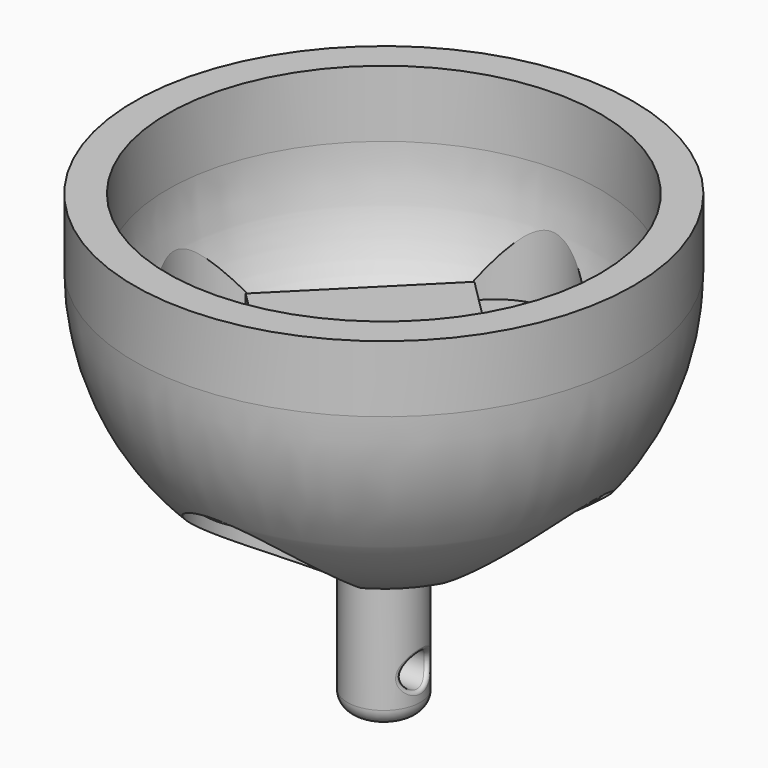
from build123d import *

# Parameters (mm, degrees)
SKETCH001_R          = 21.082
POCKET_DEPTH         = 539.866572
POLARPATTERN_COUNT   = 4
SKETCH002_R          = 21.082
SKETCH002_R_2        = 12
PAD_DEPTH            = 5
SKETCH003_R          = 11
PAD001_DEPTH         = 80
SKETCH004_R          = 5
POCKET001_DEPTH      = 75.001
POCKET001_DEPTH_BACK = -75.001
FILLET_R             = 5
FILLET001_R          = 1
FILLET002_R          = 2
PAD002_DEPTH         = 5
PAD002_DEPTH_BACK    = 5


with BuildPart() as part:
    # Sketch → Revolution (revolve)
    with BuildSketch(Plane.XZ):
        with BuildLine():
            ThreePointArc((54.120214, -36), (62.220617, -18.804051), (64.999981, 0))
            Line((64.999981, 0), (64.999981, 20))
            Line((75, 20), (64.999981, 20))
            Line((75, 0), (75, 20))
            ThreePointArc((0, -75), (53.033009, -53.033009), (75, 0))
            Line((0, -75), (0, -36))
            Line((0, -36), (54.120214, -36))
        make_face()
    revolve(axis=Axis((0, 0, 0), (0, 0, 1)))

    # Sketch001 → Pocket (cut, through all)
    with BuildSketch(Plane.XY):
        with Locations((42, 0)):
            Circle(SKETCH001_R)
    pocket = extrude(amount=-POCKET_DEPTH, mode=Mode.SUBTRACT)

    # PolarPattern: Pocket ×4 about axis
    polarpattern_axis = Axis((0, 0, 0), (0, 0, 1))
    for i in range(1, POLARPATTERN_COUNT):
        add(pocket.rotate(polarpattern_axis, i * 360 / POLARPATTERN_COUNT), mode=Mode.SUBTRACT)

    # Sketch002 (on Face1 of PolarPattern) → Pad (join)
    with BuildSketch(Plane(origin=(0, 0, -36), x_dir=(-1, 0, 0), z_dir=(0, 0, 1))):
        with Locations((42, 0)):
            Circle(SKETCH002_R)
        with Locations((42, 0)):
            Circle(SKETCH002_R_2, mode=Mode.SUBTRACT)
        with Locations((0, -42)):
            Circle(SKETCH002_R)
        with Locations((0, -42)):
            Circle(SKETCH002_R_2, mode=Mode.SUBTRACT)
        with Locations((-42, 0)):
            Circle(SKETCH002_R)
        with Locations((-42, 0)):
            Circle(SKETCH002_R_2, mode=Mode.SUBTRACT)
        with Locations((0, 42)):
            Circle(SKETCH002_R)
        with Locations((0, 42)):
            Circle(SKETCH002_R_2, mode=Mode.SUBTRACT)
    extrude(amount=-PAD_DEPTH)

    # Sketch003 (on Face1 of Pad) → Pad001 (join)
    with BuildSketch(Plane(origin=(0, 0, -36), x_dir=(-1, 0, 0), z_dir=(0, 0, 1))):
        Circle(SKETCH003_R)
    extrude(amount=-PAD001_DEPTH)

    # Sketch004 → Pocket001 (cut, two sides)
    with BuildSketch(Plane.YZ) as pocket001_sk:
        with Locations((0, -102.755127)):
            Circle(SKETCH004_R)
    extrude(amount=-POCKET001_DEPTH, mode=Mode.SUBTRACT)
    extrude(pocket001_sk.sketch, amount=-POCKET001_DEPTH_BACK, mode=Mode.SUBTRACT)

    # Fillet
    fillet_edges = [part.edges().sort_by_distance(p)[0] for p in [
        (11, 0, -116),
    ]]
    fillet(fillet_edges, radius=FILLET_R)

    # Fillet001
    fillet001_edges = [part.edges().sort_by_distance(p)[0] for p in [
        (-9.797959, -5, -102.755127),
        (9.797959, -5, -102.755127),
    ]]
    fillet(fillet001_edges, radius=FILLET001_R)

    # Fillet002
    fillet002_edges = [part.edges().sort_by_distance(p)[0] for p in [
        (0, -11, -74.188948),
    ]]
    fillet(fillet002_edges, radius=FILLET002_R)

    # Sketch005 (on Face37 of Fillet002) → Pad002 (join, two sides)
    with BuildSketch(Plane(origin=(0, 0, -36), x_dir=(-1, 0, 0), z_dir=(0, 0, 1))) as pad002_sk:
        Polygon((-54.800776, 16.617009), (16.617009, -54.800776), (54.800776, -16.617009), (-16.617009, 54.800776), align=None)
    extrude(amount=PAD002_DEPTH)
    extrude(pad002_sk.sketch, amount=-PAD002_DEPTH_BACK)


solid = part.part
